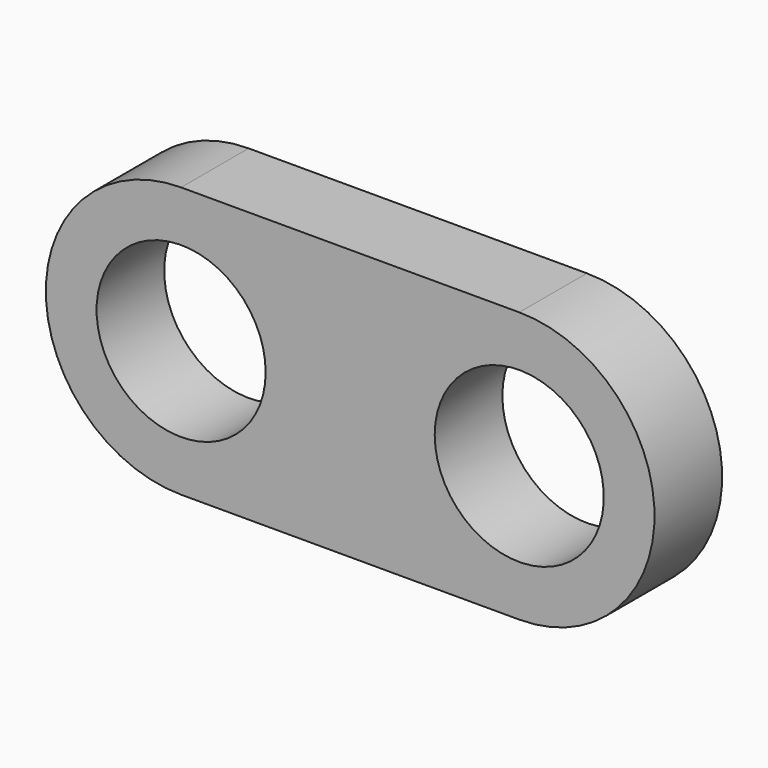
from build123d import *

# Parameters (mm, degrees)
F0_R     = 2.5
F1_DEPTH = 2.5


with BuildPart() as f1:
    # F0 (on Front) → F1 (new body)
    with BuildSketch(Plane.XZ):
        with BuildLine():
            Line((10, 4), (0, 4))
            ThreePointArc((0, 4), (-4, 0), (0, -4))
            Line((0, -4), (10, -4))
            ThreePointArc((10, -4), (14, 0), (10, 4))
        make_face()
        Circle(F0_R, mode=Mode.SUBTRACT)
        with BuildLine():
            ThreePointArc((12.5, 0), (10, -2.5), (7.5, 0))
            ThreePointArc((7.5, 0), (10, 2.5), (12.5, 0))
        make_face(mode=Mode.SUBTRACT)
    extrude(amount=F1_DEPTH)


solid = f1.part
